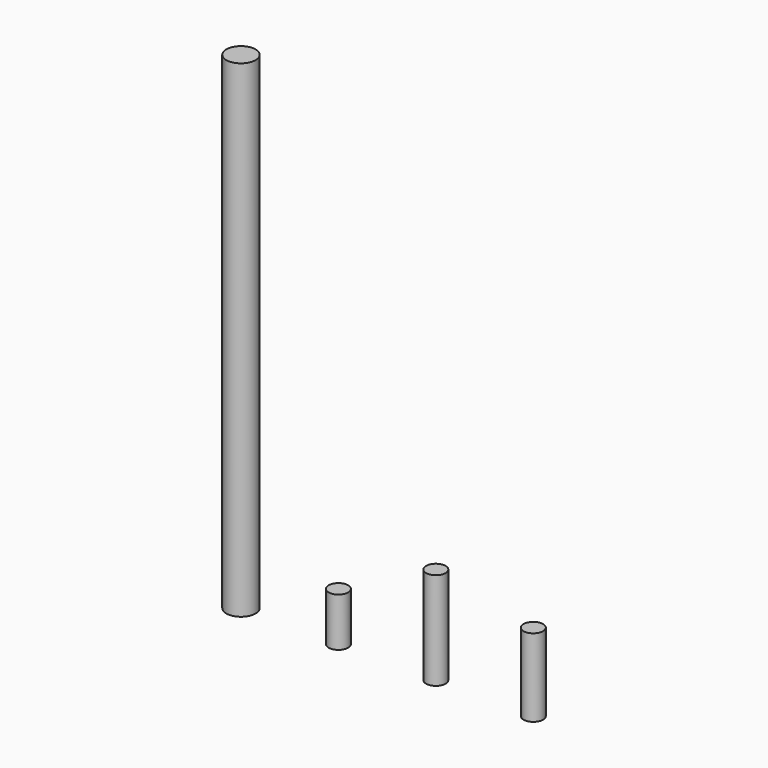
from build123d import *

# Parameters (mm, degrees)
F0_R     = 1
F1_DEPTH = 5
F2_DEPTH = 10
F4_DEPTH = 8
F6_R     = 1.5
F7_DEPTH = 50


with BuildPart() as f1:
    # F0 (on Top) → F1 (new body)
    with BuildSketch(Plane.XY):
        Circle(F0_R)
    extrude(amount=F1_DEPTH)


with BuildPart() as f2:
    # F0 (on Top) → F2 (new body)
    with BuildSketch(Plane.XY):
        Circle(F0_R)
    extrude(amount=F2_DEPTH)


with BuildPart() as f2_1:
    # F3: moved
    add(f2.part.moved(Location((10, 0, 0))))


with BuildPart() as f4:
    # F0 (on Top) → F4 (new body)
    with BuildSketch(Plane.XY):
        Circle(F0_R)
    extrude(amount=F4_DEPTH)


with BuildPart() as f4_1:
    # F5: moved
    add(f4.part.moved(Location((20, 0, 0))))


with BuildPart() as f7:
    # F6 (on Top) → F7 (new body)
    with BuildSketch(Plane.XY):
        with Locations((-10, 0)):
            Circle(F6_R)
    extrude(amount=F7_DEPTH)


solid = Compound([f1.part, f2_1.part, f4_1.part, f7.part])
